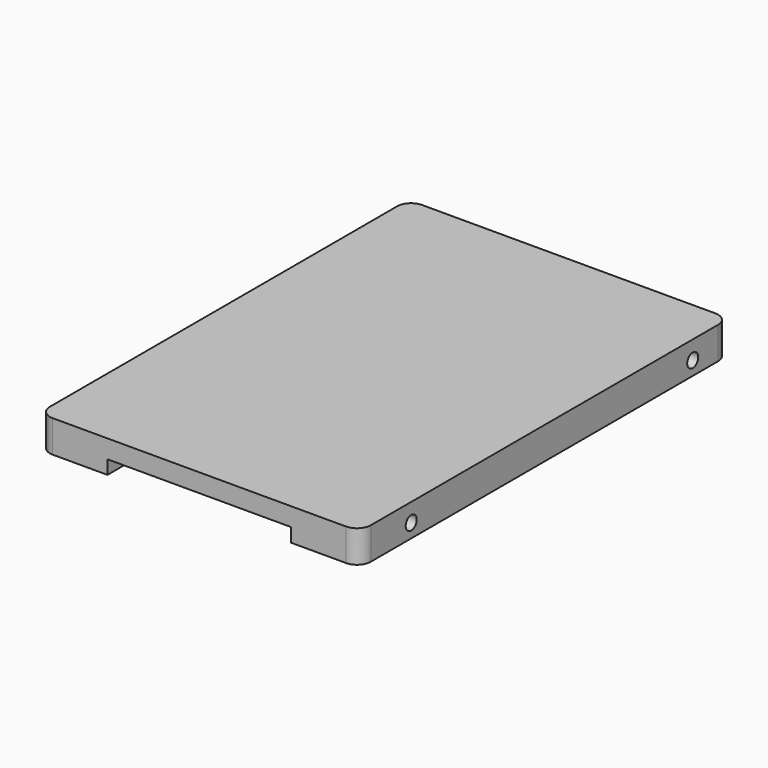
from build123d import *

# Parameters (mm, degrees)
F0_W      = 69.85
F0_H      = 100.5
F1_DEPTH  = 7
F2_R      = 3
F3_R      = 1.5
F4_DEPTH  = 5
F5_R      = 1.5
F6_DEPTH  = 5
F7_W      = 40
F7_H      = 10
F8_DEPTH  = 3
F9_R      = 1.5
F10_DEPTH = 5


with BuildPart() as f1:
    # F0 (on Top) → F1 (new body)
    with BuildSketch(Plane.XY):
        Rectangle(F0_W, F0_H)
    extrude(amount=F1_DEPTH)

    # F2
    f2_edges = [f1.edges().sort_by_distance(p)[0] for p in [
        (34.925, 50.25, 3.5),
        (-34.925, 50.25, 3.5),
        (34.925, -50.25, 3.5),
        (-34.925, -50.25, 3.5),
    ]]
    fillet(f2_edges, radius=F2_R)

    # F3 (on face) → F4 (cut)
    with BuildSketch(Plane.YZ.offset(34.925)):
        with Locations((-36.25, 3)):
            Circle(F3_R)
        with Locations((40.35, 3)):
            Circle(F3_R)
    extrude(amount=-F4_DEPTH, mode=Mode.SUBTRACT)

    # F5 (on face) → F6 (cut)
    with BuildSketch(Plane(origin=(-34.925, 0, 0), x_dir=(0, -1, 0), z_dir=(-1, 0, 0))):
        with Locations((36.25, 3)):
            Circle(F5_R)
        with Locations((-40.35, 3)):
            Circle(F5_R)
    extrude(amount=-F6_DEPTH, mode=Mode.SUBTRACT)

    # F7 (on face) → F8 (cut)
    with BuildSketch(Plane(origin=(0, 0, 0), x_dir=(1, 0, 0), z_dir=(0, 0, -1))):
        with Locations((0, 45.25)):
            Rectangle(F7_W, F7_H)
    extrude(amount=-F8_DEPTH, mode=Mode.SUBTRACT)

    # F9 (on face) → F10 (cut)
    with BuildSketch(Plane(origin=(0, 0, 0), x_dir=(1, 0, 0), z_dir=(0, 0, -1))):
        with Locations((-30.855, 36.25)):
            Circle(F9_R)
        with Locations((-30.855, -40.35)):
            Circle(F9_R)
        with Locations((30.855, -40.35)):
            Circle(F9_R)
        with Locations((30.855, 36.25)):
            Circle(F9_R)
    extrude(amount=-F10_DEPTH, mode=Mode.SUBTRACT)


solid = f1.part
